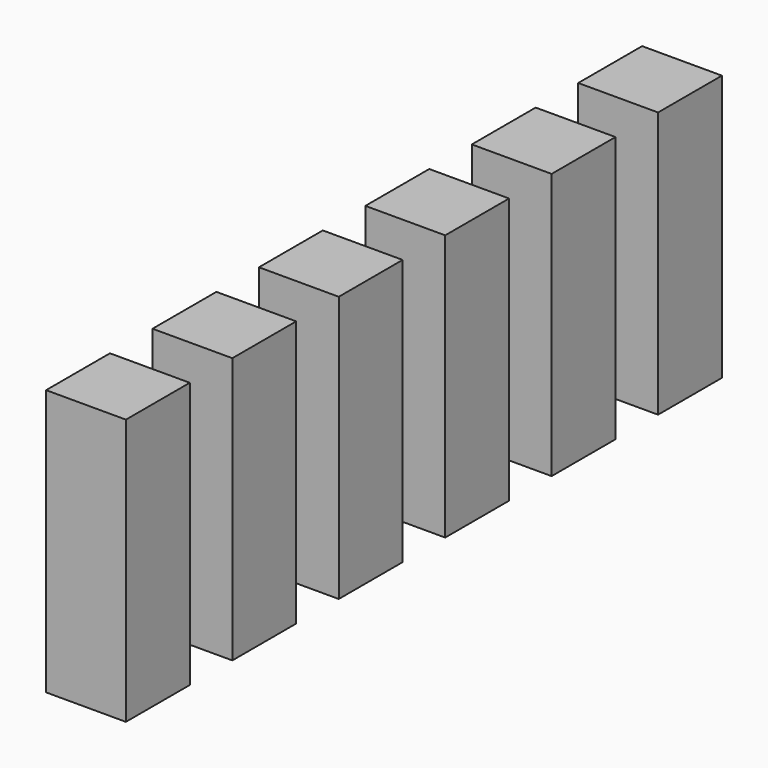
from build123d import *

# Parameters (mm, degrees)
F2_W     = 7.62
F2_H     = 7.62
F3_DEPTH = 25.4


with BuildPart() as f3:
    # F2 (on Top) → F3 (new body)
    with BuildSketch(Plane.XY):
        with Locations((3.81, 34.15853)):
            Rectangle(F2_W, F2_H)
        with Locations((3.81, 21.45853)):
            Rectangle(F2_W, F2_H)
        with Locations((3.81, 8.75853)):
            Rectangle(F2_W, F2_H)
        with Locations((3.81, -3.94147)):
            Rectangle(F2_W, F2_H)
        with Locations((3.81, -16.64147)):
            Rectangle(F2_W, F2_H)
        with Locations((3.81, -29.34147)):
            Rectangle(F2_W, F2_H)
    extrude(amount=F3_DEPTH)


solid = f3.part
